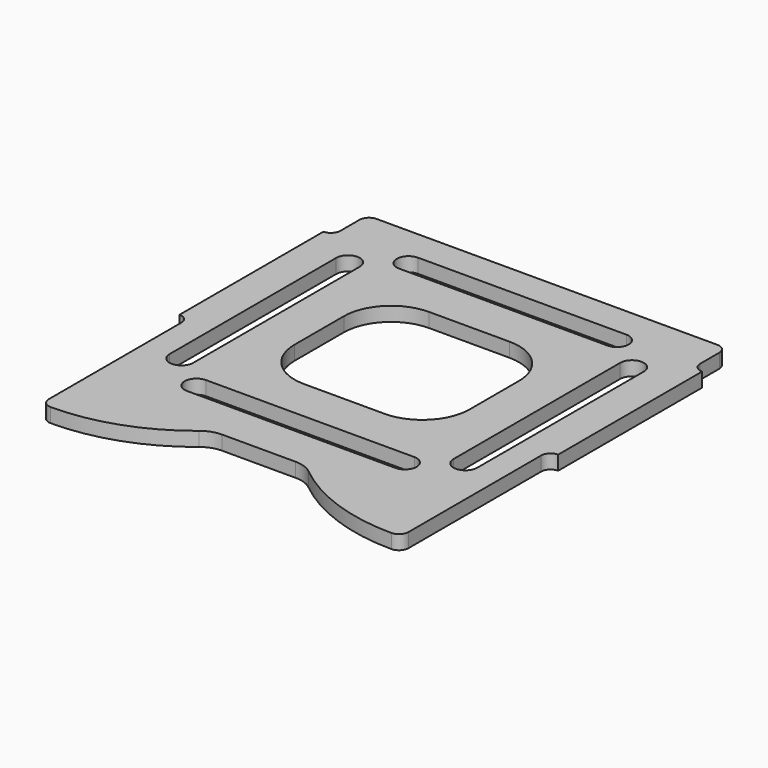
from build123d import *

# Parameters (mm, degrees)
F1_DEPTH = 1.5


with BuildPart() as f1:
    # F0 (on Top) → F1 (new body)
    with BuildSketch(Plane.XY):
        with BuildLine():
            ThreePointArc((-19, 18), (-19.292893, 17.292893), (-20, 17))
            Line((-20, 17), (-20, -2))
            ThreePointArc((-20, -2), (-19.292893, -2.292893), (-19, -3))
            Line((-19, -3), (-19, -20.520575))
            ThreePointArc((-19, -20.520575), (-18.707107, -21.227682), (-18, -21.520575))
            ThreePointArc((-18, -21.520575), (-11.518915, -20.405966), (-5.782559, -17.190218))
            ThreePointArc((-5.782559, -17.190218), (-4.895494, -16.692937), (-3.893264, -16.520575))
            Line((-3.893264, -16.520575), (3.893264, -16.520575))
            ThreePointArc((3.893264, -16.520575), (4.895494, -16.692937), (5.782559, -17.190218))
            ThreePointArc((5.782559, -17.190218), (11.518915, -20.405966), (18, -21.520575))
            ThreePointArc((18, -21.520575), (18.707107, -21.227682), (19, -20.520575))
            Line((19, -20.520575), (19, -3))
            ThreePointArc((19, -3), (19.292893, -2.292893), (20, -2))
            Line((20, -2), (20, 17))
            ThreePointArc((20, 17), (19.292893, 17.292893), (19, 18))
            Line((19, 18), (19, 20.520575))
            ThreePointArc((19, 20.520575), (18.707107, 21.227682), (18, 21.520575))
            Line((18, 21.520575), (-18, 21.520575))
            ThreePointArc((-18, 21.520575), (-18.707107, 21.227682), (-19, 20.520575))
            Line((-19, 20.520575), (-19, 18))
        make_face()
        with BuildLine():
            Line((-11, -9.75), (11, -9.75))
            ThreePointArc((11, -9.75), (12.25, -11), (11, -12.25))
            Line((11, -12.25), (-11, -12.25))
            ThreePointArc((-11, -12.25), (-12.25, -11), (-11, -9.75))
        make_face(mode=Mode.SUBTRACT)
        with BuildLine():
            Line((-16.25, -8), (-16.25, 14))
            ThreePointArc((-16.25, 14), (-15, 15.25), (-13.75, 14))
            Line((-13.75, 14), (-13.75, -8))
            ThreePointArc((-13.75, -8), (-15, -9.25), (-16.25, -8))
        make_face(mode=Mode.SUBTRACT)
        with BuildLine():
            Line((4.25, -5.25), (-4.25, -5.25))
            ThreePointArc((-4.25, -5.25), (-7.785534, -3.785534), (-9.25, -0.25))
            Line((-9.25, -0.25), (-9.25, 6.25))
            ThreePointArc((-9.25, 6.25), (-7.785534, 9.785534), (-4.25, 11.25))
            Line((-4.25, 11.25), (4.25, 11.25))
            ThreePointArc((4.25, 11.25), (7.785534, 9.785534), (9.25, 6.25))
            Line((9.25, 6.25), (9.25, -0.25))
            ThreePointArc((9.25, -0.25), (7.785534, -3.785534), (4.25, -5.25))
        make_face(mode=Mode.SUBTRACT)
        with BuildLine():
            ThreePointArc((13.75, 14), (15, 15.25), (16.25, 14))
            Line((16.25, 14), (16.25, -8))
            ThreePointArc((16.25, -8), (15, -9.25), (13.75, -8))
            Line((13.75, -8), (13.75, 14))
        make_face(mode=Mode.SUBTRACT)
        with BuildLine():
            Line((-11, 18.25), (11, 18.25))
            ThreePointArc((11, 18.25), (12.25, 17), (11, 15.75))
            Line((11, 15.75), (-11, 15.75))
            ThreePointArc((-11, 15.75), (-12.25, 17), (-11, 18.25))
        make_face(mode=Mode.SUBTRACT)
    extrude(amount=F1_DEPTH)


solid = f1.part
